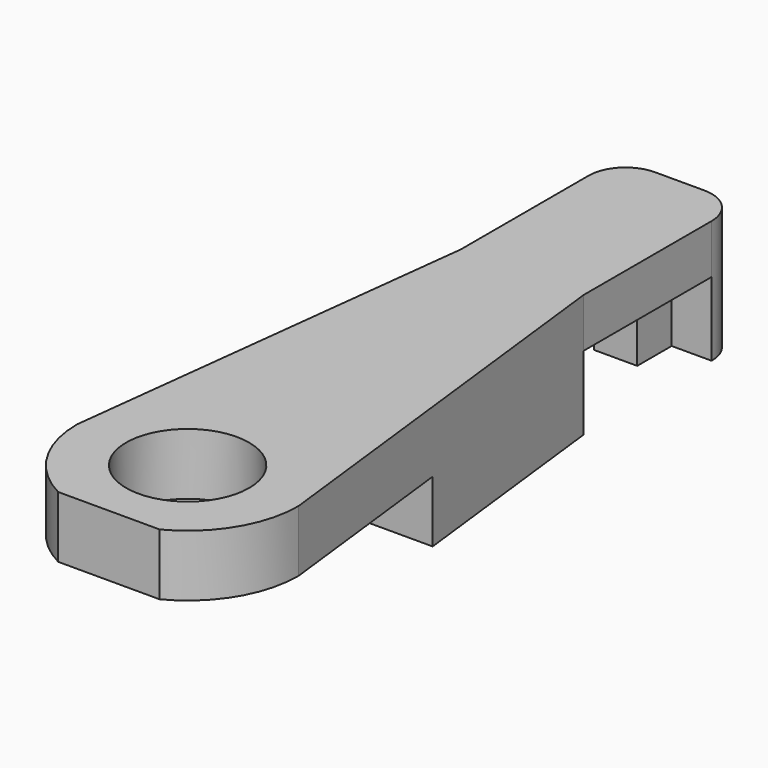
from build123d import *

# Parameters (mm, degrees)
F0_R     = 2.5
F1_DEPTH = 5
F2_W     = 6.5
F2_H     = 3
F3_DEPTH = 25
F4_W     = 1.75
F4_H     = 1.75
F5_DEPTH = 3
F6_R     = 2.5
F7_DEPTH = 2.5


with BuildPart() as f1:
    # F0 (on Top) → F1 (new body)
    with BuildSketch(Plane.XY):
        with BuildLine():
            ThreePointArc((0, 4), (0.657671, 1.657671), (2.438447, 0))
            Line((2.438447, 0), (6.561553, 0))
            ThreePointArc((6.561553, 0), (8.342329, 1.657671), (9, 4))
            Line((9, 4), (7, 21))
            Line((7, 21), (7, 27.5))
            ThreePointArc((7, 27.5), (6.56066, 28.56066), (5.5, 29))
            Line((5.5, 29), (3.5, 29))
            ThreePointArc((3.5, 29), (2.43934, 28.56066), (2, 27.5))
            Line((2, 27.5), (2, 21))
            Line((2, 21), (0, 4))
        make_face()
        with Locations((4.5, 4)):
            Circle(F0_R, mode=Mode.SUBTRACT)
    extrude(amount=-F1_DEPTH)

    # F2 (on face) → F3 (cut)
    with BuildSketch(Plane.YZ.offset(7)):
        with Locations((24.25, -3.5)):
            Rectangle(F2_W, F2_H)
    extrude(amount=-F3_DEPTH, mode=Mode.SUBTRACT)

    # F4 (on face) → F5 (join, through all)
    with BuildSketch(Plane(origin=(0, 0, -2), x_dir=(1, 0, 0), z_dir=(0, 0, -1))):
        with Locations((4.5, -26.625)):
            Rectangle(F4_W, F4_H)
    extrude(amount=F5_DEPTH)

    # F6 (on face) → F7 (cut)
    with BuildSketch(Plane(origin=(0, 0, -5), x_dir=(1, 0, 0), z_dir=(0, 0, -1))):
        with BuildLine():
            ThreePointArc((2.438447, 0), (0.657671, -1.657671), (0, -4))
            Line((0, -4), (0.941176, -12))
            Line((0.941176, -12), (8.058824, -12))
            Line((8.058824, -12), (9, -4))
            ThreePointArc((9, -4), (8.342329, -1.657671), (6.561553, 0))
            Line((6.561553, 0), (2.438447, 0))
        make_face()
        with Locations((4.5, -4)):
            Circle(F6_R, mode=Mode.SUBTRACT)
    extrude(amount=-F7_DEPTH, mode=Mode.SUBTRACT)


solid = f1.part
